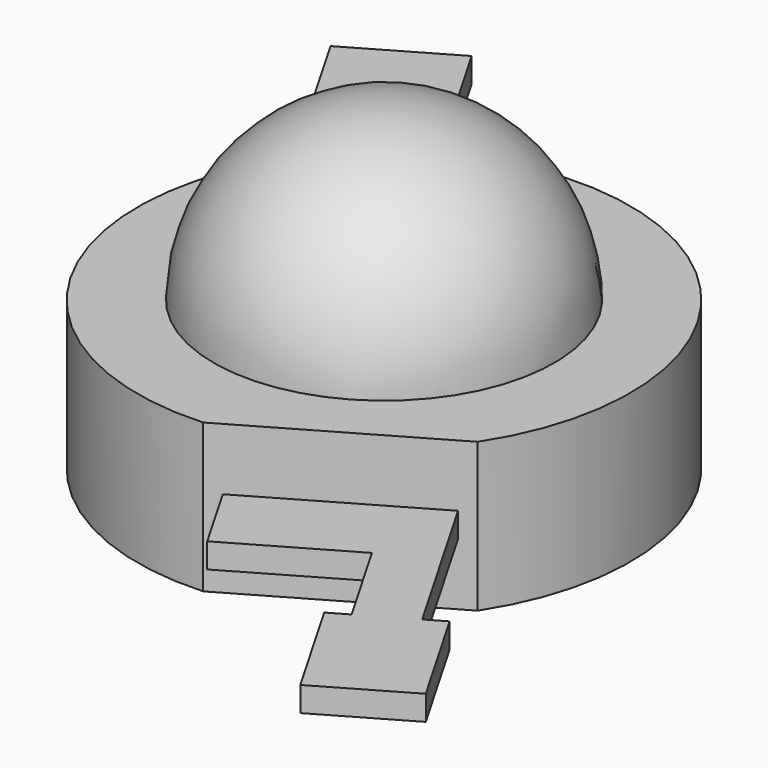
from build123d import *

# Parameters (mm, degrees)
REVOLUTION001_ANGLE       = -180
PAD015_DEPTH              = 0.4
BODY012_PLACEMENT_ANGLE   = 180
PAD014_DEPTH              = 2.4
FUSION002_PLACEMENT_ANGLE = 120


with BuildPart() as light001:
    # Sketch024 (on Face1 of ShapeBinder003) → Revolution001 (revolve)
    with BuildSketch(Plane.XY.offset(2.4)):
        with BuildLine():
            ThreePointArc((-2.75, 0), (0, -2.75), (2.75, 0))
            Line((-2.75, 0), (2.75, 0))
        make_face()
    revolve(axis=Axis((-2.75, 0, 2.4), (1, 0, 0)), revolution_arc=REVOLUTION001_ANGLE)


with BuildPart() as body012:
    # Sketch025 (on Face1 of ShapeBinder004) → Pad015 (new body)
    with BuildSketch(Plane(origin=(0, 0, 0), x_dir=(1, 0, 0), z_dir=(0, 0, -1))):
        with BuildLine():
            Line((3.65, 1.5), (6.65, 1.5))
            Line((6.65, 1.5), (6.65, 2))
            Line((6.65, 2), (8.65, 2))
            Line((8.65, 2), (8.65, 0.2))
            Line((8.65, 0.2), (6.65, 0.2))
            Line((6.65, 0.2), (6.65, 0.7))
            Line((6.65, 0.7), (4.45, 0.7))
            Line((4.45, 0.7), (4.45, -0.2))
            ThreePointArc((4.45, -0.2), (3.8, -0.85), (4.45, -1.5))
            Line((4.45, -1.5), (-6.65, -1.5))
            Line((-6.65, -1.5), (-6.65, -1.85))
            Line((-6.65, -1.85), (-8.65, -1.85))
            Line((-8.65, -1.85), (-8.65, -0.25))
            Line((-8.65, -0.25), (-6.65, -0.25))
            Line((-6.65, -0.25), (-6.65, -0.6))
            Line((-6.65, -0.6), (-4.95, -0.6))
            Line((-4.95, -0.6), (-4.95, 1.5))
            Line((-4.95, 1.5), (3.65, 1.5))
        make_face()
    extrude(amount=-PAD015_DEPTH)


with BuildPart() as body012_1:
    # Body012 placement: moved
    add(body012.part.moved(Location((0, 0, 1.4))).rotate(Axis((0, 0, 1.4), (1, 0, 0)), BODY012_PLACEMENT_ANGLE))


with BuildPart() as led2:
    # Sketch023 → Pad014 (new body)
    with BuildSketch(Plane.XY):
        with BuildLine():
            Line((-3.65, 1.75), (-3.65, -1.75))
            ThreePointArc((-3.65, -1.75), (0, -4), (3.65, -1.75))
            Line((3.65, 1.75), (3.65, -1.75))
            ThreePointArc((3.65, 1.75), (0, 4), (-3.65, 1.75))
        make_face()
    extrude(amount=PAD014_DEPTH)

    # Fusion002: union light001, Body012
    add(light001.part)
    add(body012_1.part)


with BuildPart() as led2_1:
    # Fusion002 placement: moved
    add(led2.part.moved(Location((-43, 14, -1.5))).rotate(Axis((-43, 14, -1.5), (0, 0, 1)), FUSION002_PLACEMENT_ANGLE))


solid = led2_1.part
